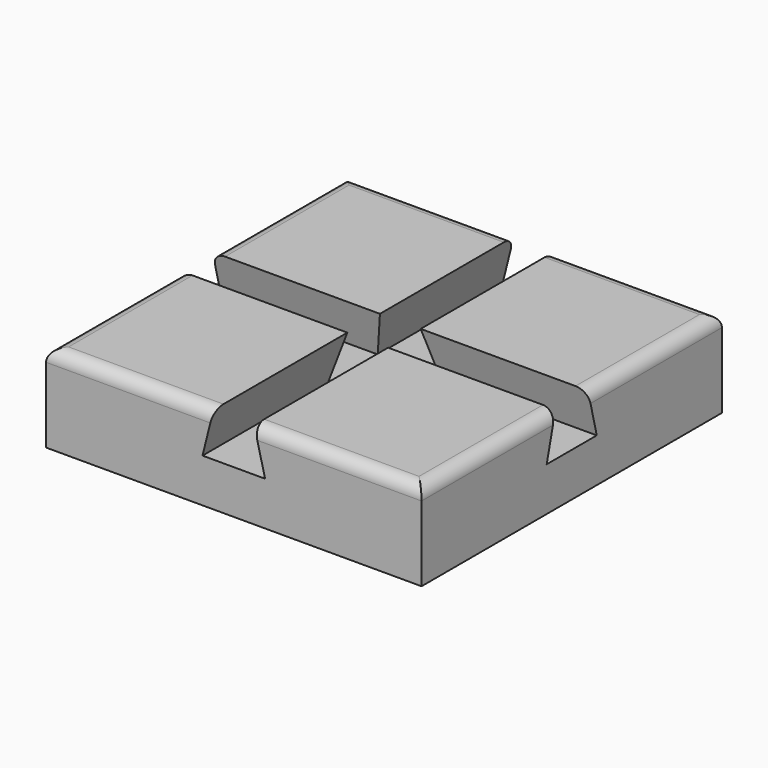
from build123d import *

# Parameters (mm, degrees)
F0_W     = 150
F0_H     = 150
F1_DEPTH = 17.5
F3_DEPTH = 150.001
F5_DEPTH = 150.001
F6_R     = 5


with BuildPart() as f1:
    # F0 (on Top) → F1 (new body, symmetric)
    with BuildSketch(Plane.XY):
        Rectangle(F0_W, F0_H)
    extrude(amount=F1_DEPTH, both=True)

    # F2 (on face) → F3 (cut, through all)
    with BuildSketch(Plane.XZ.offset(75)):
        Polygon((-8.13676, 17.5), (-12.5, 0), (12.5, 0), (8.13676, 17.5), align=None)
    extrude(amount=-F3_DEPTH, mode=Mode.SUBTRACT)

    # F4 (on face) → F5 (cut, through all)
    with BuildSketch(Plane.YZ.offset(75)):
        Polygon((-8.13676, 17.5), (-12.5, 0), (12.5, 0), (8.13676, 17.5), align=None)
    extrude(amount=-F5_DEPTH, mode=Mode.SUBTRACT)

    # F6
    f6_edges = [f1.edges().sort_by_distance(p)[0] for p in [
        (-75, 41.56838, 17.5),
        (-75, -41.56838, 17.5),
        (-41.56838, -75, 17.5),
        (41.56838, -75, 17.5),
        (75, -41.56838, 17.5),
        (75, 41.56838, 17.5),
        (41.56838, 75, 17.5),
        (-41.56838, 75, 17.5),
    ]]
    fillet(f6_edges, radius=F6_R)


solid = f1.part
